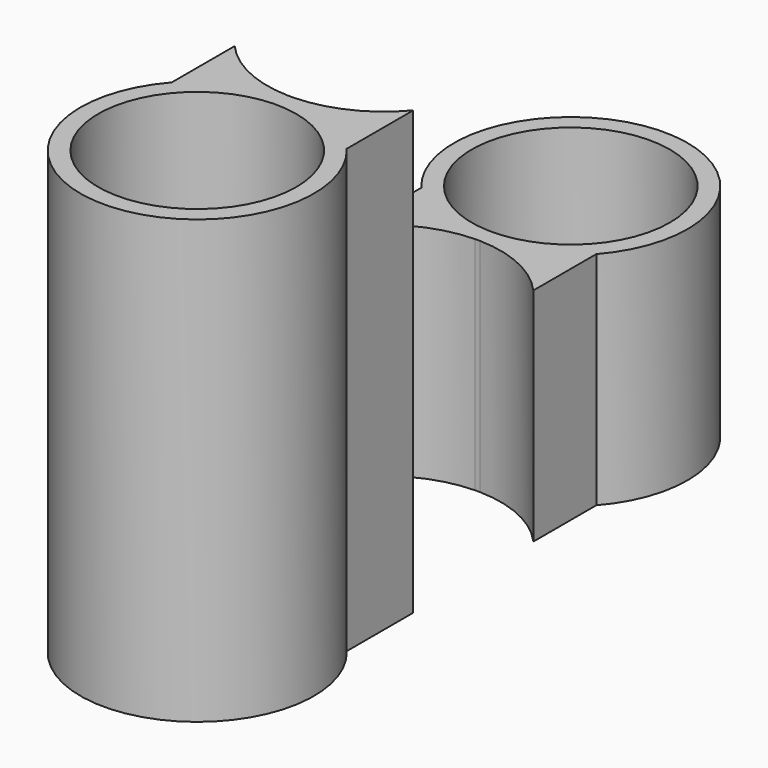
from build123d import *

# Parameters (mm, degrees)
F0_R     = 11.2
F1_DEPTH = 25
F2_DEPTH = 25


with BuildPart() as f1:
    # F0 (on Top) → F1 (new body)
    with BuildSketch(Plane.XY):
        with BuildLine():
            Line((10.1025993742, -17.8977583819), (10.1025993742, -8.4957333929))
            ThreePointArc((10.1025993742, -8.4957333929), (5.7045977621, -11.9036786068), (0.2930835775, -13.1967458874))
            ThreePointArc((0.2930835775, -13.1967458874), (0, -13.2), (-0.2930835775, -13.1967458874))
            ThreePointArc((-0.2930835775, -13.1967458874), (-5.553116016, -11.9750950941), (-9.8837928053, -8.749322247))
            Line((-9.8837928053, -8.749322247), (-9.8837928053, -17.6441695278))
            ThreePointArc((-9.8837928053, -17.6441695278), (-0.1674691177, -39.5924293871), (10.1025993742, -17.8977583819))
        make_face()
        with Locations((0, -26.3934917748)):
            Circle(F0_R, mode=Mode.SUBTRACT)
    extrude(amount=F1_DEPTH)

    # F2 (add): a face of the model
    f2_faces = [f1.faces().sort_by_distance(p)[0] for p in [
        (9.6946740654, -13.1967458874, 25),
    ]]
    extrude(f2_faces, amount=F2_DEPTH)


with BuildPart() as f1b:
    # F0 (on Top) → F1, piece 2 (new body)
    with BuildSketch(Plane.XY):
        with BuildLine():
            ThreePointArc((0.2930835775, 13.1967458874), (5.553116016, 11.9750950941), (9.8837928053, 8.749322247))
            Line((9.8837928053, 8.749322247), (9.8837928053, 17.6441695278))
            ThreePointArc((9.8837928053, 17.6441695278), (0.1674691177, 39.5924293871), (-10.1025993742, 17.8977583819))
            Line((-10.1025993742, 17.8977583819), (-10.1025993742, 8.4957333929))
            ThreePointArc((-10.1025993742, 8.4957333929), (-5.7045977621, 11.9036786068), (-0.2930835775, 13.1967458874))
            ThreePointArc((-0.2930835775, 13.1967458874), (0, 13.2), (0.2930835775, 13.1967458874))
        make_face()
        with Locations((0, 26.3934917748)):
            Circle(F0_R, mode=Mode.SUBTRACT)
    extrude(amount=F1_DEPTH)


solid = Compound([f1.part, f1b.part])
